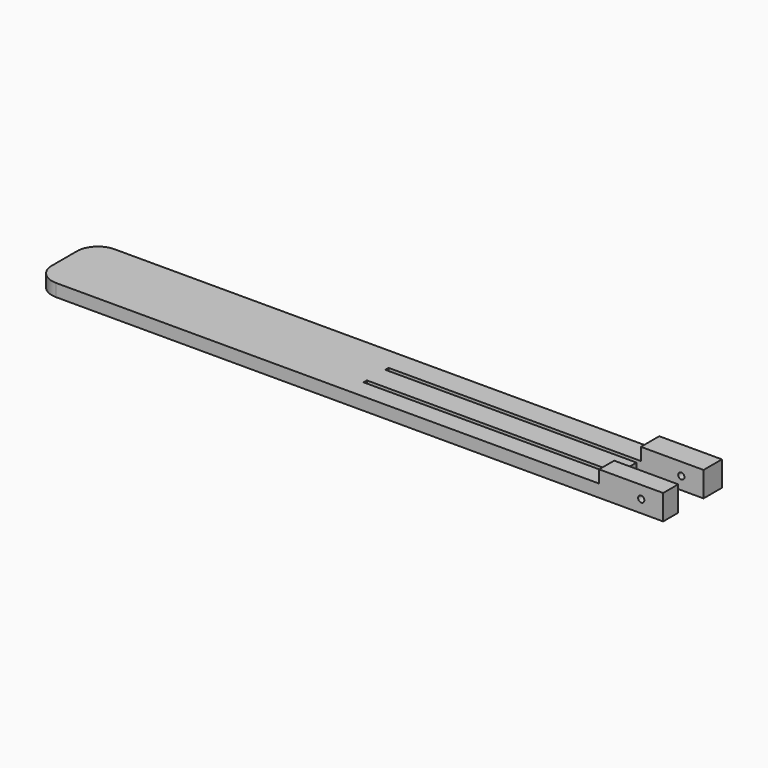
from build123d import *

# Parameters (mm, degrees)
F1_DEPTH = 6
F2_R     = 10
F3_DEPTH = 30.67
F4_DEPTH = 30.8
F5_DEPTH = 29.7
F6_W     = 30
F6_H     = 11
F6_W_2   = 30.67
F6_H_2   = 9
F7_DEPTH = 6
F8_R     = 1.5
F9_DEPTH = 37.3


with BuildPart() as f1:
    # F0 (on Top) → F1 (new body)
    with BuildSketch(Plane.XY):
        Polygon((120, 17.5), (-150, 17.5), (-150, -17.5), (120, -17.5), (120, -8.5), (0, -8.5), (0, -6.5), (150, -6.5), (150, 4.5), (0, 4.5), (0, 6.5), (120, 6.5), align=None)
    extrude(amount=F1_DEPTH)

    # F2
    f2_edges = [f1.edges().sort_by_distance(p)[0] for p in [
        (-150, -17.5, 3),
        (-150, 17.5, 3),
    ]]
    fillet(f2_edges, radius=F2_R)

    # F3 (add): a face of the model
    f3_faces = [f1.faces().sort_by_distance(p)[0] for p in [
        (120, -13, 3),
    ]]
    extrude(f3_faces, amount=F3_DEPTH)

    # F4 (add): a face of the model
    f4_faces = [f1.faces().sort_by_distance(p)[0] for p in [
        (120, 12, 3),
    ]]
    extrude(f4_faces, amount=F4_DEPTH)

    # F5 (cut): a face of the model
    f5_faces = [f1.faces().sort_by_distance(p)[0] for p in [
        (150, -1, 3),
    ]]
    extrude(f5_faces, amount=-F5_DEPTH, mode=Mode.SUBTRACT)

    # F6 (on face) → F7 (join)
    with BuildSketch(Plane.XY.offset(6)):
        with Locations((135.8, 12)):
            Rectangle(F6_W, F6_H)
        with Locations((135.335, -13)):
            Rectangle(F6_W_2, F6_H_2)
    extrude(amount=F7_DEPTH)

    # F8 (on face) → F9 (cut)
    with BuildSketch(Plane.XZ.offset(17.5)):
        with Locations((140.17, 6)):
            Circle(F8_R)
    extrude(amount=-F9_DEPTH, mode=Mode.SUBTRACT)


solid = f1.part
